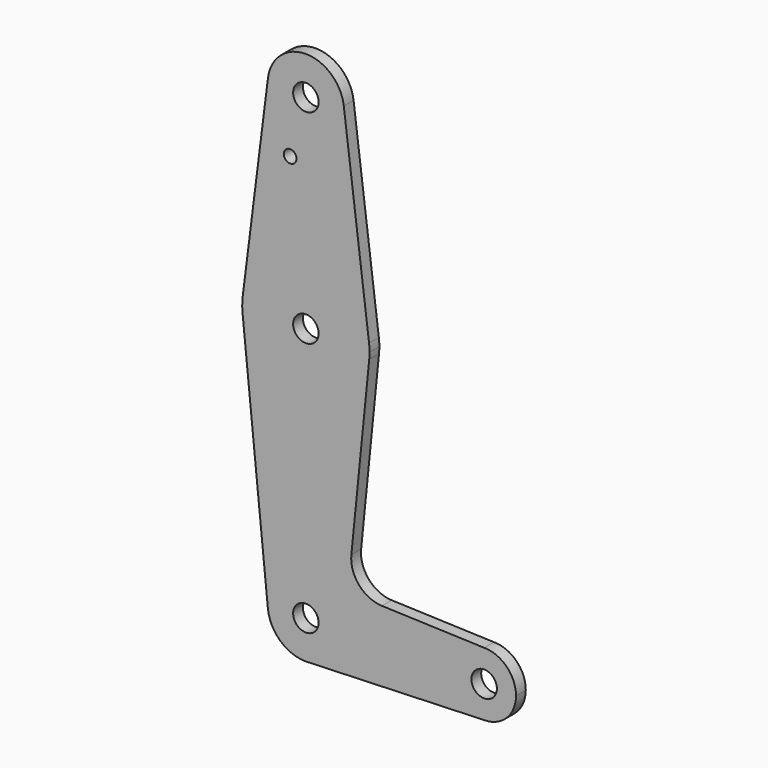
from build123d import *

# Parameters (mm, degrees)
F0_R     = 3.175
F0_R_2   = 1.5875
F1_DEPTH = 3.048


with BuildPart() as f1:
    # F0 (on Front) → F1 (new body)
    with BuildSketch(Plane.XZ):
        with BuildLine():
            ThreePointArc((15.795426, -1.5875), (15.855094, -0.794747), (15.875, 0))
            ThreePointArc((15.875, 0), (15.843841, 0.994139), (15.750488, 1.984375))
            ThreePointArc((15.750488, 1.984375), (0, 15.875), (-15.750488, 1.984375))
            ThreePointArc((-15.750488, 1.984375), (-15.873744, 0.199705), (-15.795426, -1.5875))
            ThreePointArc((-15.795426, -1.5875), (0, -15.875), (15.795426, -1.5875))
        make_face()
        Circle(F0_R, mode=Mode.SUBTRACT)
        with BuildLine():
            ThreePointArc((-15.750488, 1.984375), (0, 15.875), (15.750488, 1.984375))
            Line((15.750488, 1.984375), (9.450293, 51.990625))
            ThreePointArc((9.450293, 51.990625), (9.506305, 51.396483), (9.525, 50.8))
            ThreePointArc((9.525, 50.8), (-0.596483, 41.293695), (-9.450293, 51.990625))
            Line((-9.450293, 51.990625), (-15.750488, 1.984375))
        make_face()
        with Locations((-3.916748, 36.575992)):
            Circle(F0_R_2, mode=Mode.SUBTRACT)
        with BuildLine():
            Line((11.340621, -45.912246), (15.795426, -1.5875))
            ThreePointArc((15.795426, -1.5875), (0, -15.875), (-15.795426, -1.5875))
            Line((-15.795426, -1.5875), (-9.477255, -64.4525))
            ThreePointArc((-9.477255, -64.4525), (-0.476848, -53.986944), (9.525, -63.5))
            ThreePointArc((9.525, -63.5), (6.97129, -69.990511), (0.67949, -73.000732))
            Line((0.67949, -73.000732), (44.45, -71.4375))
            ThreePointArc((44.45, -71.4375), (36.5125, -63.5), (44.45, -55.5625))
            Line((44.45, -55.5625), (18.967215, -54.652401))
            ThreePointArc((18.967215, -54.652401), (13.260694, -51.934337), (11.340621, -45.912246))
        make_face()
        with BuildLine():
            ThreePointArc((9.525, 50.8), (9.506305, 51.396483), (9.450293, 51.990625))
            ThreePointArc((9.450293, 51.990625), (0, 60.325), (-9.450293, 51.990625))
            ThreePointArc((-9.450293, 51.990625), (-0.596483, 41.293695), (9.525, 50.8))
        make_face()
        with Locations((0, 50.8)):
            Circle(F0_R, mode=Mode.SUBTRACT)
        with BuildLine():
            ThreePointArc((9.525, -63.5), (-0.476848, -53.986944), (-9.477255, -64.4525))
            ThreePointArc((-9.477255, -64.4525), (-6.389564, -70.563929), (0, -73.025))
            Line((0, -73.025), (0.67949, -73.000732))
            ThreePointArc((0.67949, -73.000732), (6.97129, -69.990511), (9.525, -63.5))
        make_face()
        with Locations((0, -63.5)):
            Circle(F0_R, mode=Mode.SUBTRACT)
        with BuildLine():
            Line((0.67949, -73.000732), (0, -73.025))
            ThreePointArc((0, -73.025), (0.339962, -73.018931), (0.67949, -73.000732))
        make_face()
        with BuildLine():
            ThreePointArc((52.3875, -63.5), (50.06266, -57.88734), (44.45, -55.5625))
            ThreePointArc((44.45, -55.5625), (36.5125, -63.5), (44.45, -71.4375))
            ThreePointArc((44.45, -71.4375), (50.06266, -69.11266), (52.3875, -63.5))
        make_face()
        with Locations((44.45, -63.5)):
            Circle(F0_R, mode=Mode.SUBTRACT)
    extrude(amount=F1_DEPTH)


solid = f1.part
